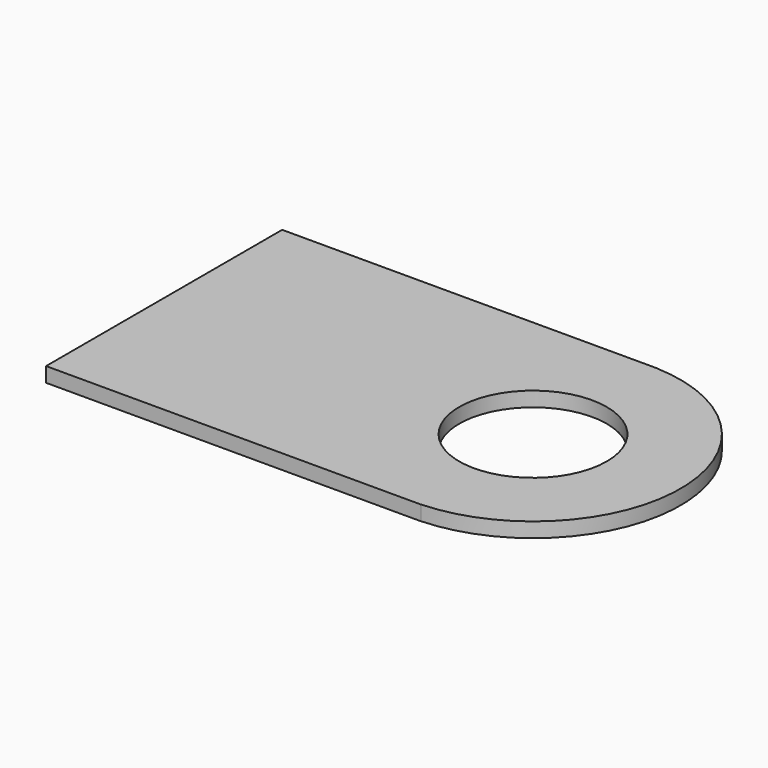
from build123d import *

# Parameters (mm, degrees)
CYLINDER050_R     = 0.5
CYLINDER050_DEPTH = 0.1
BOX019_W          = 2.54
BOX019_H          = 2
BOX019_DEPTH      = 0.1
CYLINDER049_R     = 0.5
CYLINDER049_DEPTH = 0.1
CYLINDER048_R     = 1
CYLINDER048_DEPTH = 0.1


with BuildPart() as cylinder050:
    # Cylinder050 → Cylinder050 (new body)
    with BuildSketch(Plane.XY.offset(1)):
        Circle(CYLINDER050_R)
    extrude(amount=CYLINDER050_DEPTH)


with BuildPart() as cut034:
    # Box019 → Box019 (new body)
    with BuildSketch(Plane(origin=(-2.5, -1, 1), x_dir=(1, 0, 0), z_dir=(0, 0, 1))):
        with Locations((1.27, 1)):
            Rectangle(BOX019_W, BOX019_H)
    extrude(amount=BOX019_DEPTH)

    # Cut034: cut Cylinder050
    add(cylinder050.part, mode=Mode.SUBTRACT)


with BuildPart() as cylinder049:
    # Cylinder049 → Cylinder049 (new body)
    with BuildSketch(Plane.XY.offset(1)):
        Circle(CYLINDER049_R)
    extrude(amount=CYLINDER049_DEPTH)


with BuildPart() as fusion016:
    # Cylinder048 → Cylinder048 (new body)
    with BuildSketch(Plane.XY.offset(1)):
        Circle(CYLINDER048_R)
    extrude(amount=CYLINDER048_DEPTH)

    # Cut033: cut Cylinder049
    add(cylinder049.part, mode=Mode.SUBTRACT)

    # Fusion016: union Cut034
    add(cut034.part)


with BuildPart() as fusion016_1:
    # Fusion016 placement: moved
    add(fusion016.part.moved(Location((0, -40.64, 5.5))))


solid = fusion016_1.part
